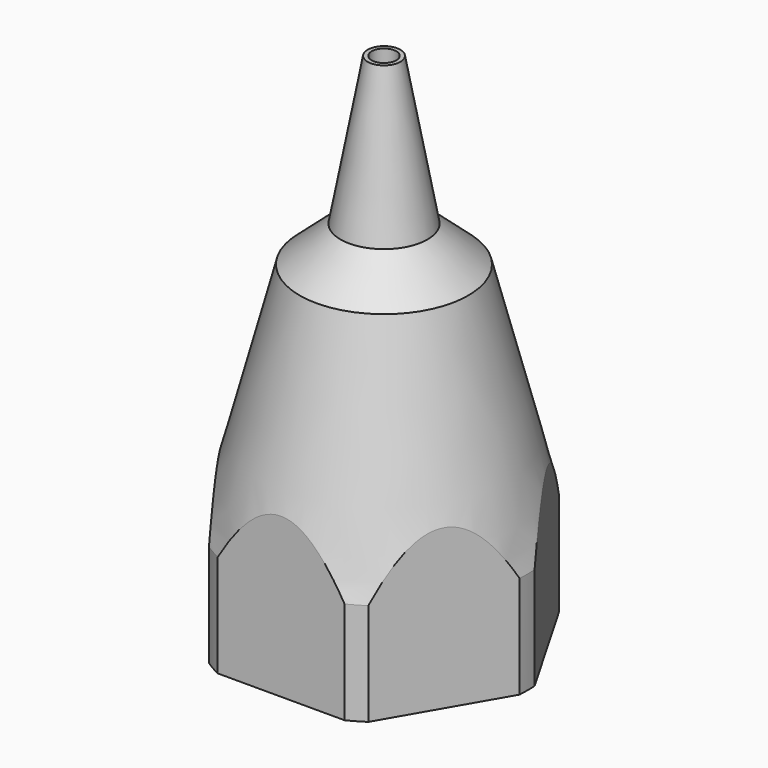
from build123d import *

# Parameters (mm, degrees)
SKETCH001_R         = 16.146195
POCKET_DEPTH        = 25.001
REVOLUTION001_ANGLE = 45
REVOLUTION002_ANGLE = 45


with BuildPart() as part:
    # Sketch → Revolution (revolve)
    with BuildSketch(Plane.XZ):
        Polygon((-1, 14.6), (-2.3, 14.6), (-3.2, 6.5), (-4.38, 5), (-4.38, 0), (-7, 0), (-7, 5), (-4.118425, 16.036616), (-2.121099, 17.791842), (-0.8, 25), (-0.6, 25), align=None)
    revolve(axis=Axis((0, 0, 0), (0, 0, 1)))

    # Sketch001 (on Face7 of Revolution) → Pocket (cut, through all)
    with BuildSketch(Plane(origin=(0, 0, 0), x_dir=(1, 0, 0), z_dir=(0, 0, -1))):
        Circle(SKETCH001_R)
        Polygon((-3.625, 6.278684), (-7.25, 0), (-3.625, -6.278684), (3.625, -6.278684), (7.25, 0), (3.625, 6.278684), align=None, mode=Mode.SUBTRACT)
    extrude(amount=-POCKET_DEPTH, mode=Mode.SUBTRACT)

    # Sketch002 → Revolution001 (revolve, symmetric)
    with BuildSketch(Plane.XZ) as revolution001_sk:
        Polygon((-4.88, 4.666667), (-4.38, 4.666667), (-3.75, 4), (-4.38, 3.333333), (-3.75, 2.666667), (-4.38, 2), (-3.75, 1.333333), (-4.38, 0.666667), (-4.88, 0.666667), align=None)
        Polygon((4.88, 0), (4.88, 4), (4.38, 4), (3.75, 3.333333), (4.38, 2.666667), (3.75, 2), (4.38, 1.333333), (3.75, 0.666667), (4.38, 0), align=None)
    revolve(axis=Axis((0, 0, 0), (0, 0, 1)), revolution_arc=REVOLUTION001_ANGLE / 2)
    revolve(revolution001_sk.sketch, axis=Axis((0, 0, 0), (0, 0, -1)), revolution_arc=REVOLUTION001_ANGLE / 2)

    # Sketch003 → Revolution002 (revolve, symmetric)
    with BuildSketch(Plane.YZ) as revolution002_sk:
        Polygon((-4.88, 5), (-4.38, 5), (-3.75, 4.333333), (-4.38, 3.666667), (-3.75, 3), (-4.38, 2.333333), (-3.75, 1.666667), (-4.38, 1), (-4.88, 1), align=None)
        Polygon((4.88, 0.333333), (4.88, 4.333333), (4.38, 4.333333), (3.75, 3.666667), (4.38, 3), (3.75, 2.333333), (4.38, 1.666667), (3.75, 1), (4.38, 0.333333), align=None)
    revolve(axis=Axis((0, 0, 0), (0, 0, 1)), revolution_arc=REVOLUTION002_ANGLE / 2)
    revolve(revolution002_sk.sketch, axis=Axis((0, 0, 0), (0, 0, -1)), revolution_arc=REVOLUTION002_ANGLE / 2)


solid = part.part
